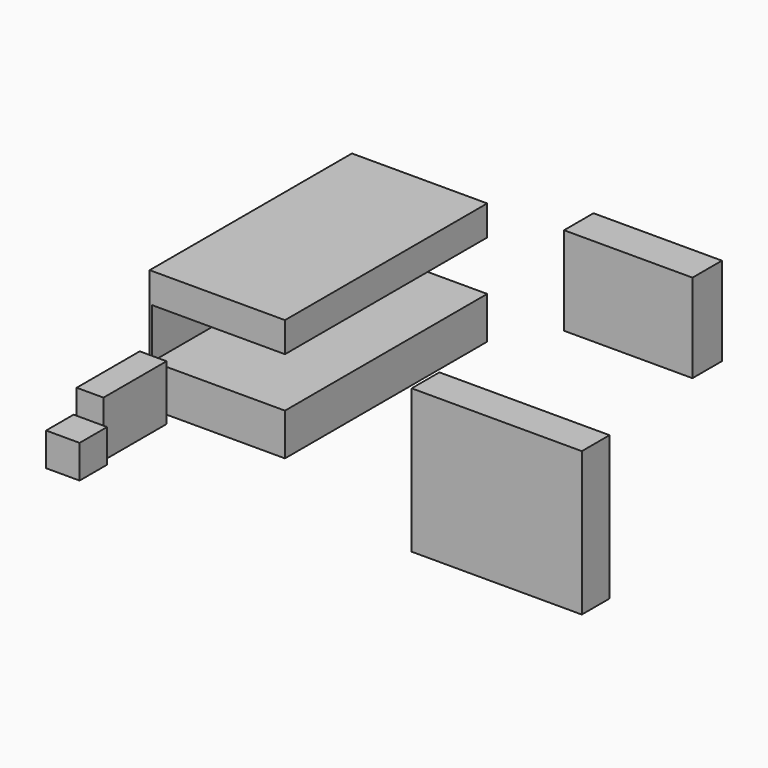
from build123d import *

# Parameters (mm, degrees)
F0_W     = 31.0551151633
F0_H     = 58.0248460174
F1_DEPTH = 27.94
F0_W_2   = 6.1559900641
F0_H_2   = 18.0984884501
F2_DEPTH = 12.7
F0_W_3   = 7.6916143298
F0_H_3   = 7.8975185752
F3_DEPTH = 7.62
F0_W_4   = 39.0488561243
F0_H_4   = 7.9504065216
F4_DEPTH = 33.02
F0_W_5   = 29.4771557674
F0_H_5   = 8.4530077875
F5_DEPTH = 20.32
F6_W     = 58.0248460174
F6_H     = 11.4022633061
F7_DEPTH = 30.48


with BuildPart() as f1:
    # F0 (on Top) → F1 (new body)
    with BuildSketch(Plane.XY):
        with Locations((-64.2681159079, 4.5171789825)):
            Rectangle(F0_W, F0_H)
    extrude(amount=F1_DEPTH)

    # F6 (on face) → F7 (cut)
    with BuildSketch(Plane.YZ.offset(-48.7405583262)):
        with Locations((4.5171789825, 15.3517113067)):
            Rectangle(F6_W, F6_H)
    extrude(amount=-F7_DEPTH, mode=Mode.SUBTRACT)


with BuildPart() as f2:
    # F0 (on Top) → F2 (new body)
    with BuildSketch(Plane.XY):
        with Locations((-76.7176784575, -36.396369338)):
            Rectangle(F0_W_2, F0_H_2)
    extrude(amount=F2_DEPTH)


with BuildPart() as f3:
    # F0 (on Top) → F3 (new body)
    with BuildSketch(Plane.XY):
        with Locations((-75.9498663247, -50.2718761563)):
            Rectangle(F0_W_3, F0_H_3)
    extrude(amount=F3_DEPTH)


with BuildPart() as f4:
    # F0 (on Top) → F4 (new body)
    with BuildSketch(Plane.XY):
        with Locations((11.1489808187, -34.6204061061)):
            Rectangle(F0_W_4, F0_H_4)
    extrude(amount=F4_DEPTH)


with BuildPart() as f5:
    # F0 (on Top) → F5 (new body)
    with BuildSketch(Plane.XY):
        with Locations((-25.8931447752, 49.6630799025)):
            Rectangle(F0_W_5, F0_H_5)
    extrude(amount=F5_DEPTH)


solid = Compound([f1.part, f2.part, f3.part, f4.part, f5.part])
